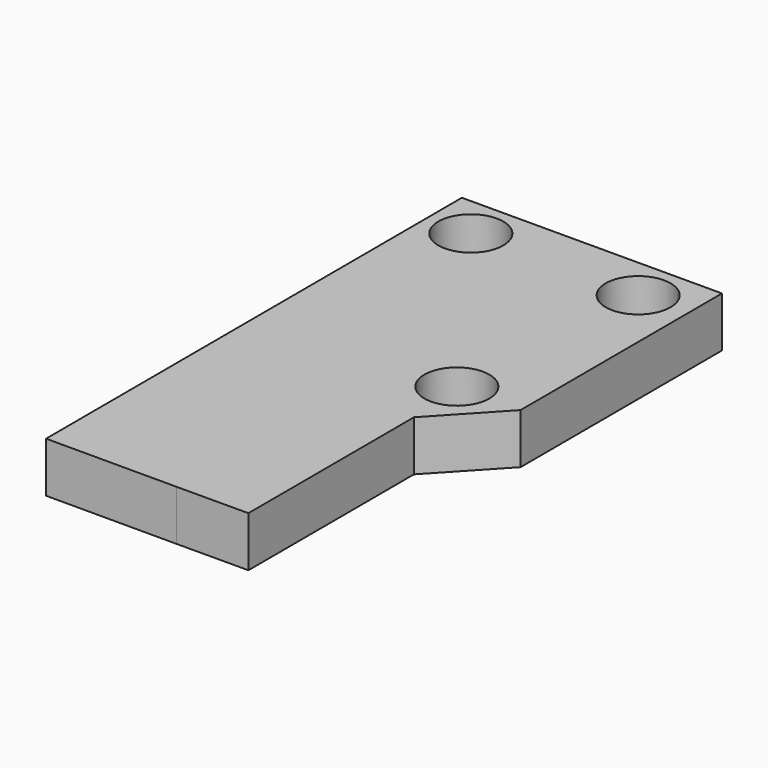
from build123d import *

# Parameters (mm, degrees)
F1_DEPTH = 5
F2_DEPTH = 4
F3_DEPTH = 4
F4_R     = 3.22905
F4_R_2   = 3.229051
F5_DEPTH = 25


with BuildPart() as f1:
    # F0 (on Top) → F1 (new body)
    with BuildSketch(Plane.XY):
        Polygon((16.577804, 72.764611), (3.665576, 72.739941), (-9.246652, 72.715272), (-9.147654, 20.899711), (3.838721, 20.904658), (10.953161, 20.92936), (10.913751, 41.556355), (16.625739, 47.675223), align=None)
    extrude(amount=F1_DEPTH)

    # F0 (on Top) → F2 (join)
    with BuildSketch(Plane.XY):
        Polygon((16.577804, 72.764611), (3.665576, 72.739941), (-9.246652, 72.715272), (-9.147654, 20.899711), (3.838721, 20.904658), (10.953161, 20.92936), (10.913751, 41.556355), (16.625739, 47.675223), align=None)
    extrude(amount=F2_DEPTH)

    # F0 (on Top) → F3 (join)
    with BuildSketch(Plane.XY):
        Polygon((16.577804, 72.764611), (3.665576, 72.739941), (-9.246652, 72.715272), (-9.147654, 20.899711), (3.838721, 20.904658), (10.953161, 20.92936), (10.913751, 41.556355), (16.625739, 47.675223), align=None)
    extrude(amount=F3_DEPTH)

    # F4 (on Top) → F5 (cut)
    with BuildSketch(Plane.XY):
        with Locations((10.293464, 47.669735)):
            Circle(F4_R)
        with Locations((11.692577, 68.456538)):
            Circle(F4_R_2)
        with Locations((-4.947346, 68.456538)):
            Circle(F4_R_2)
    extrude(amount=F5_DEPTH, mode=Mode.SUBTRACT)


solid = f1.part
